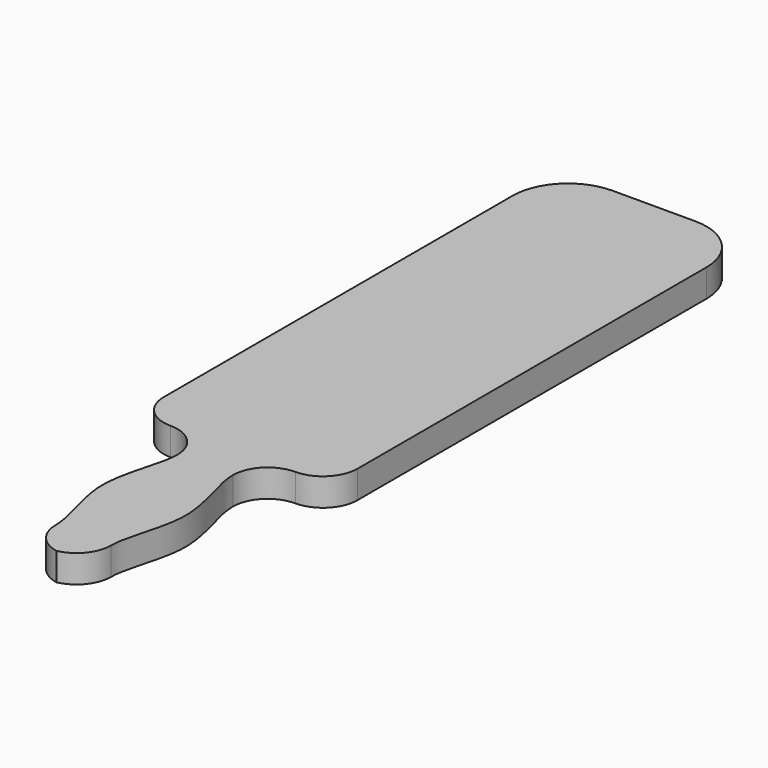
from build123d import *

# Parameters (mm, degrees)
F1_DEPTH = 12.7


with BuildPart() as f1:
    # F0 (on Top) → F1 (new body)
    with BuildSketch(Plane.XY):
        with BuildLine():
            Line((31.75, 15.875), (31.75, 85.725))
            add(Edge.make_bspline(
                [(31.75, 85.725), (31.75, 76.2), (19.05, 50.8), (31.75, 25.4), (31.75, 15.875)],
                knots=[0, 0, 0, 0, 35.497579, 70.995158, 70.995158, 70.995158, 70.995158], degree=3))
        make_face()
        with BuildLine():
            add(Edge.make_bspline(
                [(57.15, 85.725), (57.15, 76.2), (69.85, 50.8), (57.15, 25.4), (57.15, 15.875)],
                knots=[0, 0, 0, 0, 35.497579, 70.995158, 70.995158, 70.995158, 70.995158], degree=3))
            Line((57.15, 85.725), (57.15, 15.875))
        make_face()
        with BuildLine():
            Line((63.5, 342.9), (25.4, 342.9))
            ThreePointArc((25.4, 342.9), (7.439488, 335.460512), (0, 317.5))
            Line((0, 317.5), (0, 117.475))
            ThreePointArc((0, 117.475), (4.64968, 106.24968), (15.875, 101.6))
            ThreePointArc((15.875, 101.6), (27.10032, 96.95032), (31.75, 85.725))
            Line((31.75, 85.725), (31.75, 15.875))
            ThreePointArc((31.75, 15.875), (35.328278, 5.834768), (44.45, 0.32074))
            ThreePointArc((44.45, 0.32074), (53.571722, 5.834768), (57.15, 15.875))
            Line((57.15, 15.875), (57.15, 85.725))
            ThreePointArc((57.15, 85.725), (61.79968, 96.95032), (73.025, 101.6))
            ThreePointArc((73.025, 101.6), (84.25032, 106.24968), (88.9, 117.475))
            Line((88.9, 117.475), (88.9, 317.5))
            ThreePointArc((88.9, 317.5), (81.460512, 335.460512), (63.5, 342.9))
        make_face()
    extrude(amount=F1_DEPTH)


solid = f1.part
